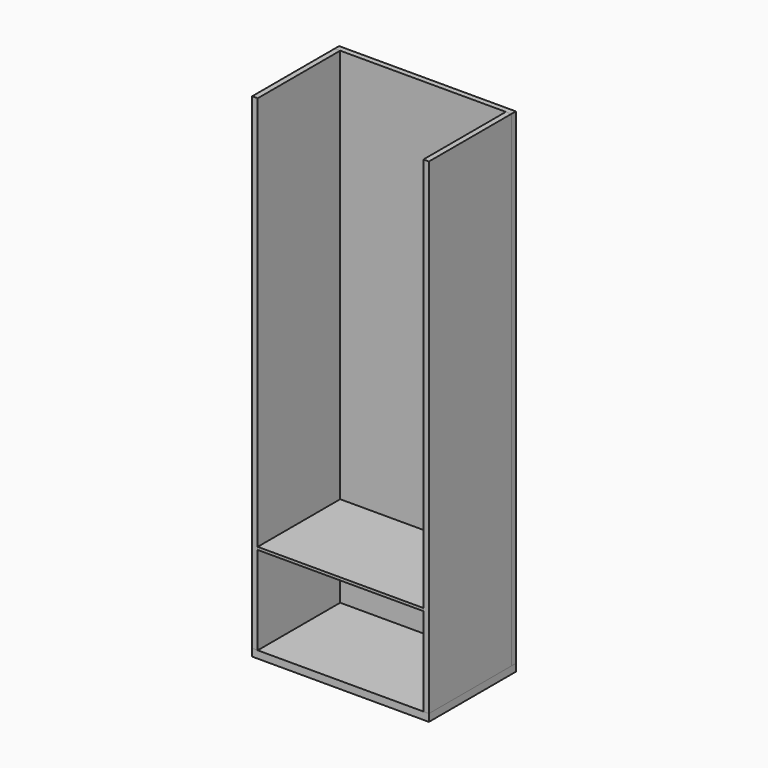
from build123d import *

# Parameters (mm, degrees)
F1_DEPTH = 1676.4
F0_W     = 19.05
F0_H     = 355.6
F2_DEPTH = 1676.4
F0_W_2   = 571.5
F3_DEPTH = 25.4
F4_W     = 571.5
F4_H     = 9.525
F5_DEPTH = 355.6


with BuildPart() as f1:
    # F0 (on Top) → F1 (new body)
    with BuildSketch(Plane.XY):
        Polygon((285.75, 177.8), (304.8, 177.8), (304.8, 196.85), (-304.8, 196.85), (-304.8, 177.8), (-285.75, 177.8), align=None)
    extrude(amount=F1_DEPTH)


with BuildPart() as f2:
    # F0 (on Top) → F2 (new body)
    with BuildSketch(Plane.XY):
        with Locations((-295.275, 0)):
            Rectangle(F0_W, F0_H)
        with Locations((295.275, 0)):
            Rectangle(F0_W, F0_H)
    extrude(amount=F2_DEPTH)


with BuildPart() as f3:
    # F0 (on Top) → F3 (new body)
    with BuildSketch(Plane.XY):
        with Locations((295.275, 0)):
            Rectangle(F0_W, F0_H)
        Polygon((285.75, 177.8), (304.8, 177.8), (304.8, 196.85), (-304.8, 196.85), (-304.8, 177.8), (-285.75, 177.8), align=None)
        Rectangle(F0_W_2, F0_H)
        with Locations((-295.275, 0)):
            Rectangle(F0_W, F0_H)
    extrude(amount=-F3_DEPTH)


with BuildPart() as f5:
    # F4 (on face) → F5 (new body, through all)
    with BuildSketch(Plane.XZ.offset(-177.8)):
        with Locations((0, 309.5625)):
            Rectangle(F4_W, F4_H)
    extrude(amount=F5_DEPTH)


solid = Compound([f1.part, f2.part, f3.part, f5.part])
